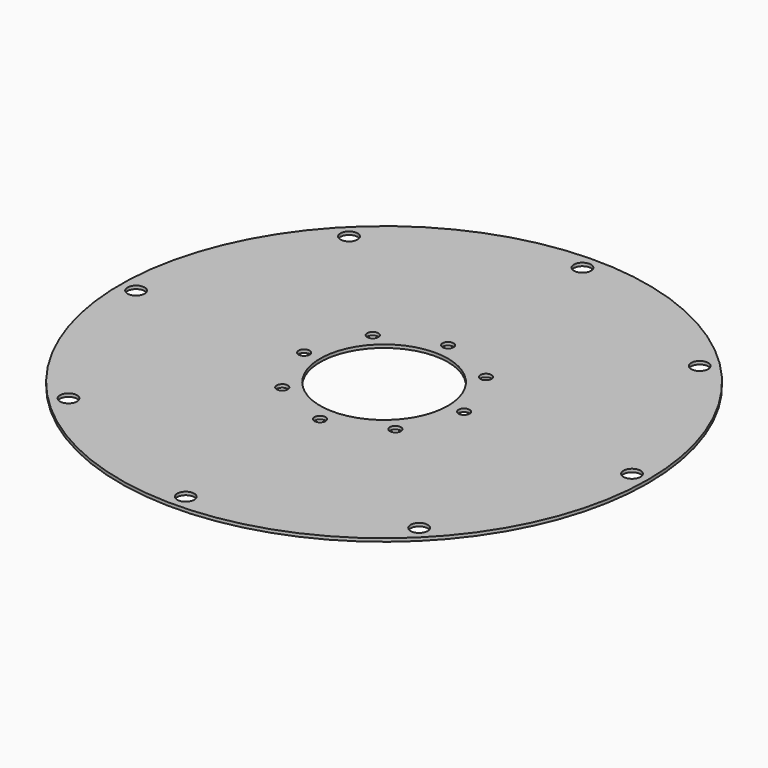
from build123d import *

# Parameters (mm, degrees)
F0_R     = 157.1625
F0_R_2   = 5.08
F0_R_3   = 3.302
F0_R_4   = 38.0619
F1_DEPTH = 1.8796


with BuildPart() as f1:
    # F0 (on Top) → F1 (new body)
    with BuildSketch(Plane.XY):
        Circle(F0_R)
        with Locations((-104.395477, -104.395477)):
            Circle(F0_R_2, mode=Mode.SUBTRACT)
        with Locations((-33.67596, -33.67596)):
            Circle(F0_R_3, mode=Mode.SUBTRACT)
        with Locations((0, -147.6375)):
            Circle(F0_R_2, mode=Mode.SUBTRACT)
        with Locations((104.395477, -104.395477)):
            Circle(F0_R_2, mode=Mode.SUBTRACT)
        with Locations((0, -47.625)):
            Circle(F0_R_3, mode=Mode.SUBTRACT)
        with Locations((33.67596, -33.67596)):
            Circle(F0_R_3, mode=Mode.SUBTRACT)
        with Locations((-147.6375, 0)):
            Circle(F0_R_2, mode=Mode.SUBTRACT)
        with Locations((-47.625, 0)):
            Circle(F0_R_3, mode=Mode.SUBTRACT)
        with Locations((-33.67596, 33.67596)):
            Circle(F0_R_3, mode=Mode.SUBTRACT)
        with Locations((-104.395477, 104.395477)):
            Circle(F0_R_2, mode=Mode.SUBTRACT)
        Circle(F0_R_4, mode=Mode.SUBTRACT)
        with Locations((33.67596, 33.67596)):
            Circle(F0_R_3, mode=Mode.SUBTRACT)
        with Locations((47.625, 0)):
            Circle(F0_R_3, mode=Mode.SUBTRACT)
        with Locations((0, 47.625)):
            Circle(F0_R_3, mode=Mode.SUBTRACT)
        with Locations((147.6375, 0)):
            Circle(F0_R_2, mode=Mode.SUBTRACT)
        with Locations((0, 147.6375)):
            Circle(F0_R_2, mode=Mode.SUBTRACT)
        with Locations((104.395477, 104.395477)):
            Circle(F0_R_2, mode=Mode.SUBTRACT)
    extrude(amount=F1_DEPTH)


solid = f1.part
